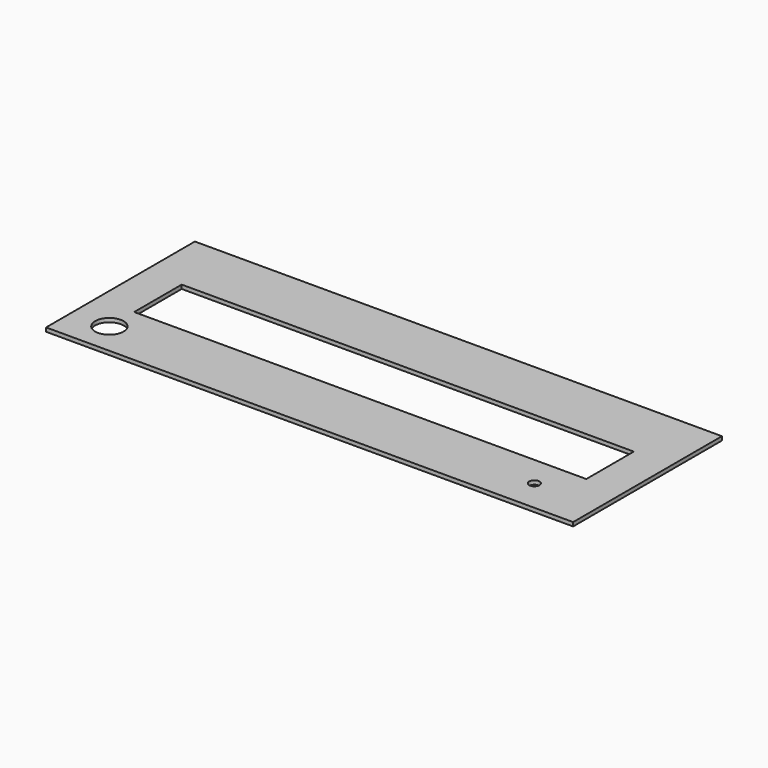
from build123d import *

# Parameters (mm, degrees)
F0_W     = 408
F0_H     = 144
F0_R     = 11
F0_R_2   = 4
F0_W_2   = 350
F0_H_2   = 46
F1_DEPTH = 3


with BuildPart() as f1:
    # F0 (on Top) → F1 (new body)
    with BuildSketch(Plane.XY):
        with Locations((-12.382596, -1.676874)):
            Rectangle(F0_W, F0_H)
        with Locations((-187.382596, -48.676874)):
            Circle(F0_R, mode=Mode.SUBTRACT)
        with Locations((141.617404, -48.676874)):
            Circle(F0_R_2, mode=Mode.SUBTRACT)
        with Locations((-12.382596, -1.676874)):
            Rectangle(F0_W_2, F0_H_2, mode=Mode.SUBTRACT)
    extrude(amount=-F1_DEPTH)


solid = f1.part
